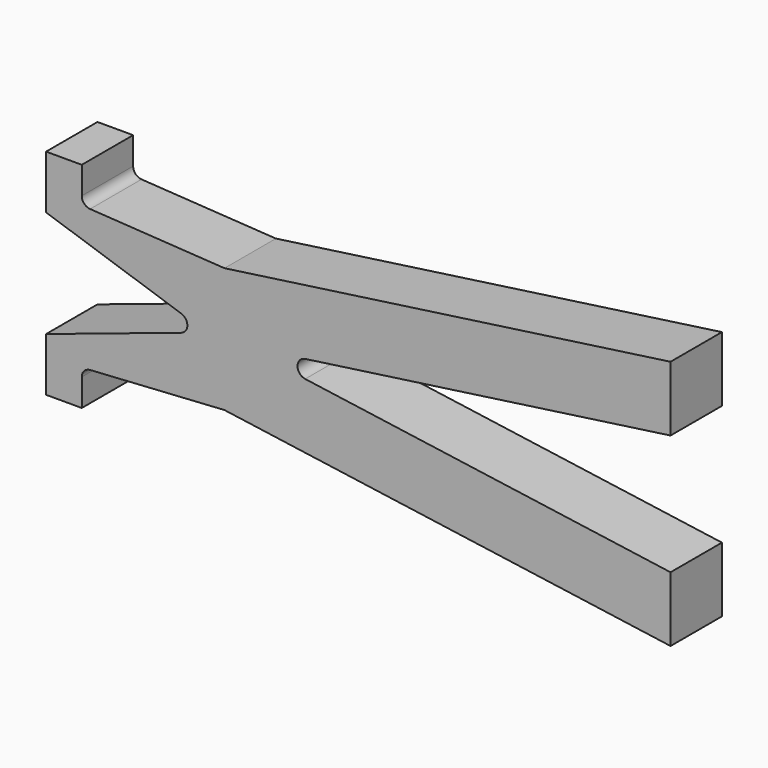
from build123d import *

# Parameters (mm, degrees)
F1_DEPTH = 1.8
F2_R     = 0.25
F3_R     = 0.25


with BuildPart() as f1:
    # F0 (on Front) → F1 (new body)
    with BuildSketch(Plane.XZ):
        Polygon((8, 3.50676), (-4.5, 1.75), (-8.5, 2), (-8.5, 3), (-9.5, 3), (-9.5, 1.5), (-5, 0), (-9.5, -1.5), (-9.5, -3), (-8.5, -3), (-8.5, -2), (-4.5, -1.75), (8, -3.50676), (8, -1.68649), (-4, 0), (8, 1.68649), align=None)
    extrude(amount=F1_DEPTH)

    # F2
    f2_edges = [f1.edges().sort_by_distance(p)[0] for p in [
        (-4, -0.9, 0),
        (-5, -0.9, 0),
    ]]
    fillet(f2_edges, radius=F2_R)

    # F3
    f3_edges = [f1.edges().sort_by_distance(p)[0] for p in [
        (-8.5, -0.9, 2),
        (-8.5, -0.9, -2),
    ]]
    fillet(f3_edges, radius=F3_R)


solid = f1.part
